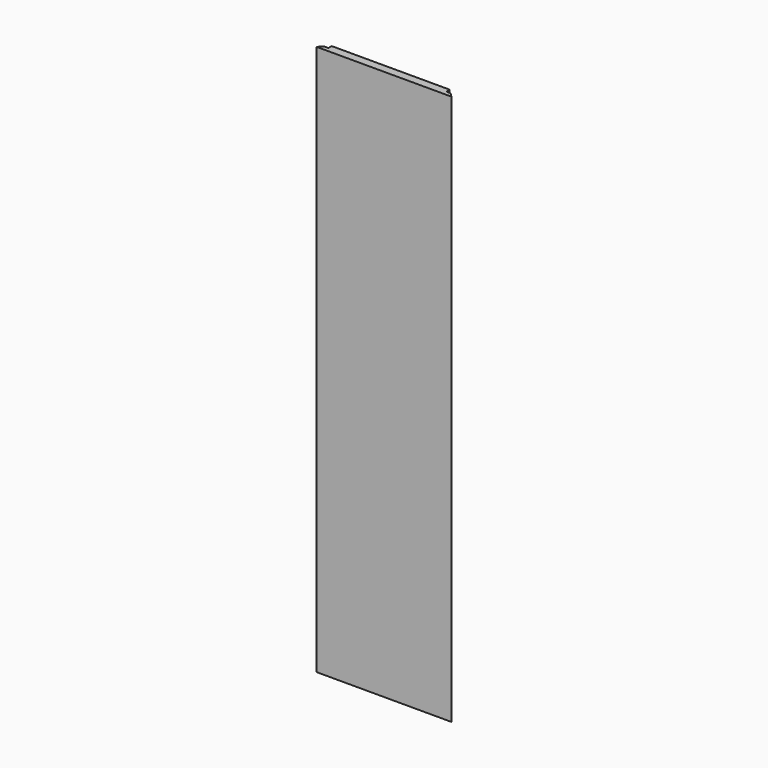
from build123d import *

# Parameters (mm, degrees)
F0_W     = 266.7
F0_H     = 9.525
F1_DEPTH = 1244.6


with BuildPart() as f1:
    # F0 (on Top) → F1 (new body)
    with BuildSketch(Plane.XY):
        with Locations((-113.997698, -22.314342)):
            Rectangle(F0_W, F0_H)
        Polygon((-256.872698, -27.076842), (-266.397698, -36.601842), (38.402302, -36.601842), (28.877302, -27.076842), (19.352302, -27.076842), (-247.347698, -27.076842), align=None)
    extrude(amount=F1_DEPTH)


solid = f1.part
